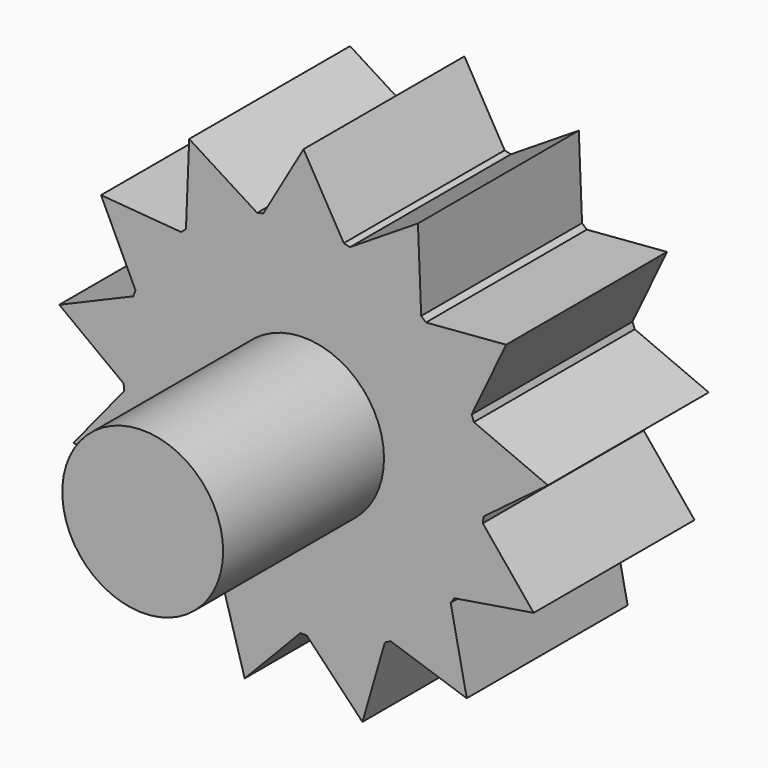
from build123d import *

# Parameters (mm, degrees)
F1_DEPTH = 25
F2_R     = 10
F3_DEPTH = 25


with BuildPart() as f1:
    # F0 (on Front) → F1 (new body)
    with BuildSketch(Plane.XZ):
        with BuildLine():
            ThreePointArc((22.380146, -2.319282), (22.470017, -1.161188), (22.5, 0))
            ThreePointArc((22.5, 0), (22.166219, 3.861183), (21.174779, 7.607807))
            ThreePointArc((21.174779, 7.607807), (21.037865, 7.97861), (20.894459, 8.34695))
            ThreePointArc((20.894459, 8.34695), (18.517137, 12.781457), (15.213812, 16.576789))
            ThreePointArc((15.213812, 16.576789), (14.92026, 16.841492), (14.622103, 17.100997))
            ThreePointArc((14.622103, 17.100997), (10.456271, 19.922761), (5.767543, 21.748229))
            ThreePointArc((5.767543, 21.748229), (5.384602, 21.846191), (5, 21.937411))
            ThreePointArc((5, 21.937411), (0, 22.5), (-5, 21.937411))
            ThreePointArc((-5, 21.937411), (-5.384602, 21.846191), (-5.767543, 21.748229))
            ThreePointArc((-5.767543, 21.748229), (-10.456271, 19.922761), (-14.622103, 17.100997))
            ThreePointArc((-14.622103, 17.100997), (-14.92026, 16.841492), (-15.213812, 16.576789))
            ThreePointArc((-15.213812, 16.576789), (-18.517137, 12.781457), (-20.894459, 8.34695))
            ThreePointArc((-20.894459, 8.34695), (-21.037865, 7.97861), (-21.174779, 7.607807))
            ThreePointArc((-21.174779, 7.607807), (-22.33595, 2.712075), (-22.380146, -2.319282))
            ThreePointArc((-22.380146, -2.319282), (-22.33595, -2.712075), (-22.28486, -3.104032))
            ThreePointArc((-22.28486, -3.104032), (-21.037865, -7.97861), (-18.738811, -12.454194))
            ThreePointArc((-18.738811, -12.454194), (-18.517137, -12.781457), (-18.289748, -13.104775))
            ThreePointArc((-18.289748, -13.104775), (-14.92026, -16.841492), (-10.804641, -19.736001))
            ThreePointArc((-10.804641, -19.736001), (-10.456271, -19.922761), (-10.104675, -20.103371))
            ThreePointArc((-10.104675, -20.103371), (-5.384602, -21.846191), (-0.395257, -22.496528))
            ThreePointArc((-0.395257, -22.496528), (0, -22.5), (0.395257, -22.496528))
            ThreePointArc((0.395257, -22.496528), (5.384602, -21.846191), (10.104675, -20.103371))
            ThreePointArc((10.104675, -20.103371), (10.456271, -19.922761), (10.804641, -19.736001))
            ThreePointArc((10.804641, -19.736001), (14.92026, -16.841492), (18.289748, -13.104775))
            ThreePointArc((18.289748, -13.104775), (18.517137, -12.781457), (18.738811, -12.454194))
            ThreePointArc((18.738811, -12.454194), (21.037865, -7.97861), (22.28486, -3.104032))
            ThreePointArc((22.28486, -3.104032), (22.33595, -2.712075), (22.380146, -2.319282))
        make_face()
        with BuildLine():
            ThreePointArc((21.174779, 7.607807), (22.166219, 3.861183), (22.5, 0))
            ThreePointArc((22.5, 0), (22.470017, -1.161188), (22.380146, -2.319282))
            Line((22.380146, -2.319282), (30.374574, 3.688141))
            Line((30.374574, 3.688141), (21.174779, 7.607807))
        make_face()
        with BuildLine():
            ThreePointArc((15.213812, 16.576789), (18.517137, 12.781457), (20.894459, 8.34695))
            Line((20.894459, 8.34695), (25.181385, 17.381455))
            Line((25.181385, 17.381455), (15.213812, 16.576789))
        make_face()
        with BuildLine():
            Line((28.609314, -10.850082), (22.28486, -3.104032))
            ThreePointArc((22.28486, -3.104032), (21.037865, -7.97861), (18.738811, -12.454194))
            Line((18.738811, -12.454194), (28.609314, -10.850082))
        make_face()
        with BuildLine():
            ThreePointArc((5.767543, 21.748229), (10.456271, 19.922761), (14.622103, 17.100997))
            Line((14.622103, 17.100997), (14.219444, 27.092887))
            Line((14.219444, 27.092887), (5.767543, 21.748229))
        make_face()
        with BuildLine():
            Line((20.290005, -22.902681), (18.289748, -13.104775))
            ThreePointArc((18.289748, -13.104775), (14.92026, -16.841492), (10.804641, -19.736001))
            Line((10.804641, -19.736001), (20.290005, -22.902681))
        make_face()
        with BuildLine():
            ThreePointArc((-5, 21.937411), (0, 22.5), (5, 21.937411))
            Line((5, 21.937411), (0, 30.597665))
            Line((0, 30.597665), (-5, 21.937411))
        make_face()
        with BuildLine():
            Line((7.322501, -29.708552), (10.104675, -20.103371))
            ThreePointArc((10.104675, -20.103371), (5.384602, -21.846191), (0.395257, -22.496528))
            Line((0.395257, -22.496528), (7.322501, -29.708552))
        make_face()
        with BuildLine():
            ThreePointArc((-14.622103, 17.100997), (-10.456271, 19.922761), (-5.767543, 21.748229))
            Line((-5.767543, 21.748229), (-14.219444, 27.092887))
            Line((-14.219444, 27.092887), (-14.622103, 17.100997))
        make_face()
        with BuildLine():
            Line((-7.322501, -29.708552), (-0.395257, -22.496528))
            ThreePointArc((-0.395257, -22.496528), (-5.384602, -21.846191), (-10.104675, -20.103371))
            Line((-10.104675, -20.103371), (-7.322501, -29.708552))
        make_face()
        with BuildLine():
            ThreePointArc((-20.894459, 8.34695), (-18.517137, 12.781457), (-15.213812, 16.576789))
            Line((-15.213812, 16.576789), (-25.181385, 17.381455))
            Line((-25.181385, 17.381455), (-20.894459, 8.34695))
        make_face()
        with BuildLine():
            Line((-20.290005, -22.902681), (-10.804641, -19.736001))
            ThreePointArc((-10.804641, -19.736001), (-14.92026, -16.841492), (-18.289748, -13.104775))
            Line((-18.289748, -13.104775), (-20.290005, -22.902681))
        make_face()
        with BuildLine():
            ThreePointArc((-22.380146, -2.319282), (-22.33595, 2.712075), (-21.174779, 7.607807))
            Line((-21.174779, 7.607807), (-30.374574, 3.688141))
            Line((-30.374574, 3.688141), (-22.380146, -2.319282))
        make_face()
        with BuildLine():
            Line((-28.609314, -10.850082), (-18.738811, -12.454194))
            ThreePointArc((-18.738811, -12.454194), (-21.037865, -7.97861), (-22.28486, -3.104032))
            Line((-22.28486, -3.104032), (-28.609314, -10.850082))
        make_face()
    extrude(amount=F1_DEPTH)

    # F2 (on face) → F3 (join)
    with BuildSketch(Plane.XZ.offset(25)):
        Circle(F2_R)
    extrude(amount=F3_DEPTH)


solid = f1.part
